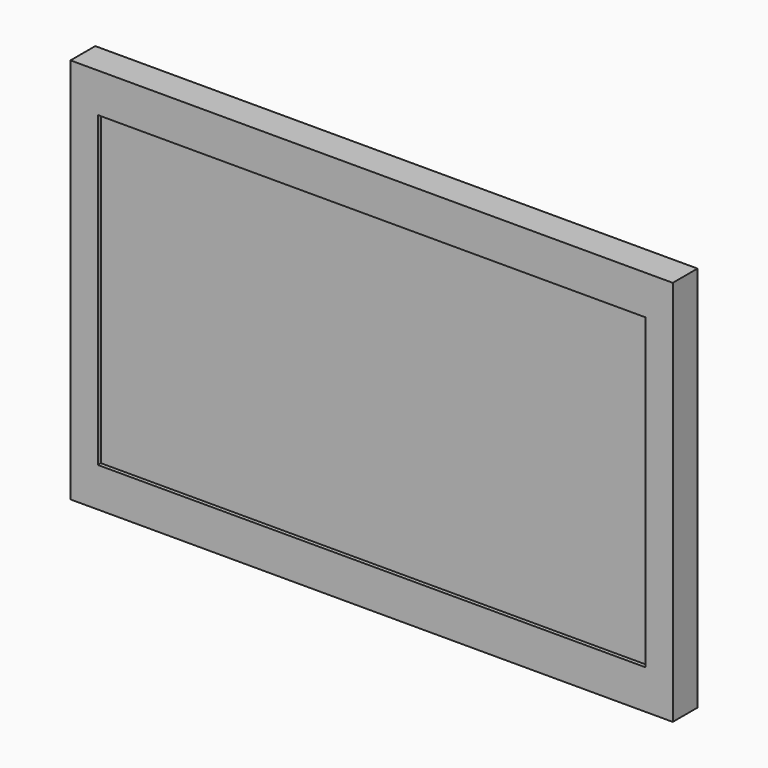
from build123d import *

# Parameters (mm, degrees)
F0_W     = 779
F0_H     = 500
F1_DEPTH = 90
F2_SIZE  = 50
F3_W     = 708.4165965748
F3_H     = 398.4843355733
F4_DEPTH = 5
F6_D     = 5
F6_DEPTH = 10
F6_TIP   = 1.5021515476


with BuildPart() as f1:
    # F0 (on Front) → F1 (new body)
    with BuildSketch(Plane.XZ):
        Rectangle(F0_W, F0_H)
    extrude(amount=F1_DEPTH)

    # F2
    f2_edges = [f1.edges().sort_by_distance(p)[0] for p in [
        (389.5, 0, 0),
        (0, 0, 250),
        (-389.5, 0, 0),
        (0, 0, -250),
    ]]
    chamfer(f2_edges, length=F2_SIZE)

    # F3 (on face) → F4 (cut)
    with BuildSketch(Plane.XZ.offset(90)):
        Rectangle(F3_W, F3_H)
    extrude(amount=-F4_DEPTH, mode=Mode.SUBTRACT)

    # F6
    with Locations(Plane(origin=(0, 0, 0), x_dir=(-1, 0, 0), z_dir=(0, 1, 0))):
        with Locations((-100, 100), (100, 100), (-100, -100), (100, -100)):
            Hole(F6_D / 2, depth=F6_DEPTH)
            with Locations((0, 0, -(F6_DEPTH + F6_TIP / 2))):  # 118° drill point
                Cone(0, F6_D / 2, F6_TIP, mode=Mode.SUBTRACT)


solid = f1.part
